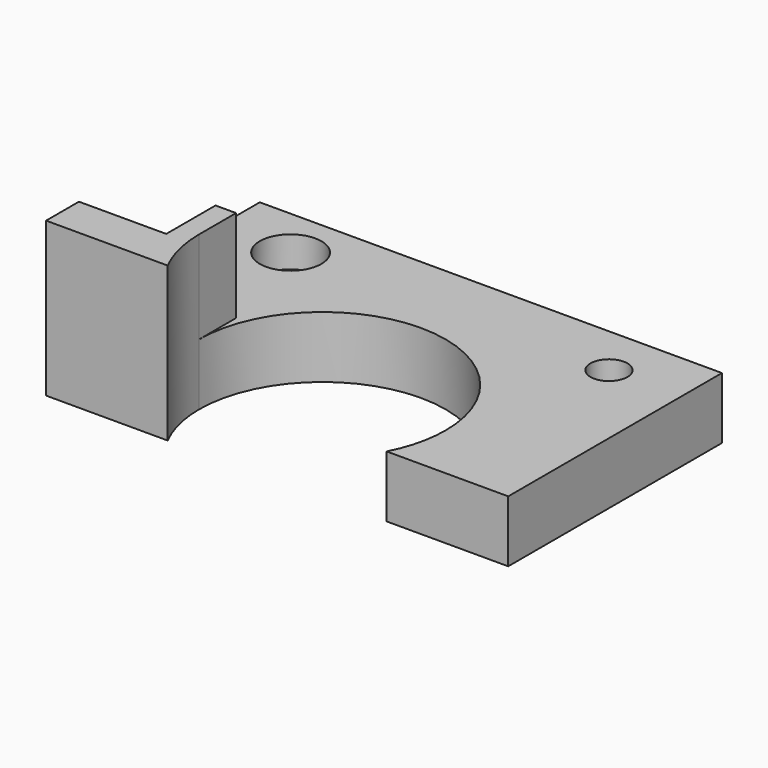
from build123d import *

# Parameters (mm, degrees)
F0_R     = 3
F0_R_2   = 1.8
F1_DEPTH = 6
F2_DEPTH = 15
F3_DEPTH = 3
F4_R     = 3.875
F5_DEPTH = 2


with BuildPart() as f1:
    # F0 (on Top) → F1 (new body)
    with BuildSketch(Plane.XY):
        with BuildLine():
            Line((10.6606484084, -5.5091356412), (22.5, -5.5091356412))
            Line((22.5, -5.5091356412), (22.5, 20.5))
            Line((22.5, 20.5), (-22.5, 20.5))
            Line((-22.5, 20.5), (-22.5, -1.5091356412))
            Line((-22.5, -1.5091356412), (-14, -1.5091356412))
            Line((-14, -1.5091356412), (-14, 4.4908643588))
            Line((-14, 4.4908643588), (-12, 4.4908643588))
            Line((-12, 4.4908643588), (-12, 0))
            ThreePointArc((-12, 0), (0, 12), (12, 0))
            ThreePointArc((12, 0), (11.6603555027, -2.8348032647), (10.6606484084, -5.5091356412))
        make_face()
        with Locations((-15.5, 15.5)):
            Circle(F0_R, mode=Mode.SUBTRACT)
        with Locations((15.5, 15.5)):
            Circle(F0_R, mode=Mode.SUBTRACT)
        Polygon((-14, -1.5091356412), (-22.5, -1.5091356412), (-22.5, -5.5091356412), (-12, -5.5091356412), (-12, 0), (-12, 4.4908643588), (-14, 4.4908643588), align=None)
        Polygon((-14, -1.5091356412), (-22.5, -1.5091356412), (-22.5, -5.5091356412), (-12, -5.5091356412), (-12, 0), (-12, 4.4908643588), (-14, 4.4908643588), align=None)
        with Locations((15.5, 15.5)):
            Circle(F0_R)
        with Locations((15.5, 15.5)):
            Circle(F0_R_2, mode=Mode.SUBTRACT)
    extrude(amount=F1_DEPTH)

    # F0 (on Top) → F2 (join)
    with BuildSketch(Plane.XY):
        Polygon((-14, -1.5091356412), (-22.5, -1.5091356412), (-22.5, -5.5091356412), (-12, -5.5091356412), (-12, 0), (-12, 4.4908643588), (-14, 4.4908643588), align=None)
        with BuildLine():
            Line((-12, -5.5091356412), (-10.6606484084, -5.5091356412))
            ThreePointArc((-10.6606484084, -5.5091356412), (-11.6603555027, -2.8348032647), (-12, 0))
            Line((-12, 0), (-12, -5.5091356412))
        make_face()
    extrude(amount=F2_DEPTH)

    # F0 (on Top) → F3 (join)
    with BuildSketch(Plane.XY):
        with Locations((-15.5, 15.5)):
            Circle(F0_R)
        with Locations((-15.5, 15.5)):
            Circle(F0_R_2, mode=Mode.SUBTRACT)
    extrude(amount=F3_DEPTH)

    # F4 (on face) → F5 (cut)
    with BuildSketch(Plane(origin=(0, -1.5091356412, 0), x_dir=(-1, 0, 0), z_dir=(0, 1, 0))):
        with Locations((18.25, 10.5)):
            Circle(F4_R)
    extrude(amount=-F5_DEPTH, mode=Mode.SUBTRACT)


solid = f1.part
